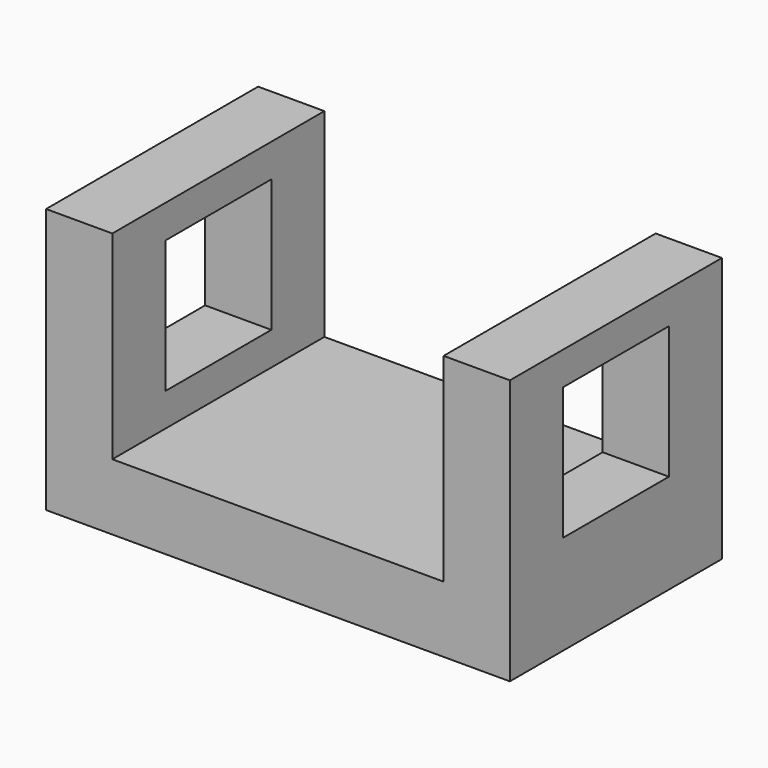
from build123d import *

# Parameters (mm, degrees)
F1_DEPTH = 50.8
F2_W     = 25.4
F2_H     = 25.4
F3_DEPTH = 12.7
F4_W     = 25.4
F4_H     = 25.4
F5_DEPTH = 12.7
F6_DEPTH = 12.7


with BuildPart() as f1:
    # F0 (on Front) → F1 (new body)
    with BuildSketch(Plane.XZ):
        Polygon((-20.90885, 34.170015), (-33.60885, 34.170015), (-33.60885, -16.629985), (55.29115, -16.629985), (55.29115, 34.170015), (42.59115, 34.170015), (42.59115, -3.929985), (-20.90885, -3.929985), align=None)
    extrude(amount=F1_DEPTH)

    # F2 (on face) → F3 (cut)
    with BuildSketch(Plane(origin=(-33.60885, 0, 0), x_dir=(0, -1, 0), z_dir=(-1, 0, 0))):
        with Locations((25.4, 15.120015)):
            Rectangle(F2_W, F2_H)
    extrude(amount=-F3_DEPTH, mode=Mode.SUBTRACT)

    # F4 (on face) → F5 (cut)
    with BuildSketch(Plane(origin=(42.59115, 0, 0), x_dir=(0, -1, 0), z_dir=(-1, 0, 0))):
        with Locations((25.4, 15.120015)):
            Rectangle(F4_W, F4_H)
    extrude(amount=-F5_DEPTH, mode=Mode.SUBTRACT)

    # F2 (on face) → F6 (cut)
    with BuildSketch(Plane(origin=(-33.60885, 0, 0), x_dir=(0, -1, 0), z_dir=(-1, 0, 0))):
        with Locations((25.4, 15.120015)):
            Rectangle(F2_W, F2_H)
    extrude(amount=-F6_DEPTH, mode=Mode.SUBTRACT)


solid = f1.part
